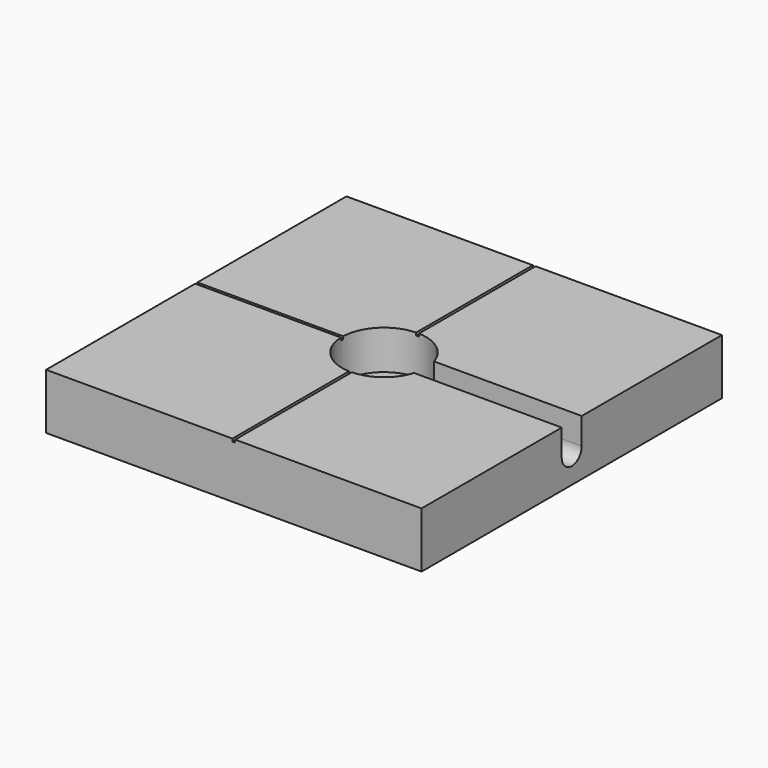
from build123d import *

# Parameters (mm, degrees)
F3_W     = 135
F3_H     = 135
F4_DEPTH = 20
F0_W     = 15.1
F0_H     = 14.1
F6_START = 14
F6_DEPTH = 136
F7_START = 19
F7_DEPTH = 6


with BuildPart() as f4:
    # F3 (on Top) → F4 (new body)
    with BuildSketch(Plane.XY):
        Rectangle(F3_W, F3_H)
    extrude(amount=F4_DEPTH)

    # F0 (on Front) → F5 (revolve, cut)
    with BuildSketch(Plane.XZ):
        with Locations((7.55, 12.95)):
            Rectangle(F0_W, F0_H)
    revolve(axis=Axis((0, 0, 12.95), (0, 0, -1)), mode=Mode.SUBTRACT)

    # F1 (on Right) → F6 (cut)
    with BuildSketch(Plane.YZ.offset(F6_START)):
        with BuildLine():
            Line((4.5, 20.4638522118), (0, 20.4638522118))
            Line((0, 20.4638522118), (-4.5, 20.4638522118))
            Line((-4.5, 20.4638522118), (-4.5, 10.4638522118))
            ThreePointArc((-4.5, 10.4638522118), (0, 5.9638522118), (4.5, 10.4638522118))
            Line((4.5, 10.4638522118), (4.5, 20.4638522118))
        make_face()
    extrude(amount=F6_DEPTH, mode=Mode.SUBTRACT)

    # F2 (on Top) → F7 (cut)
    with BuildSketch(Plane.XY.offset(F7_START)):
        Polygon((14, 0.5), (14, 0), (14, -0.5), (74, -0.5), (74, 0.5), align=None)
        Polygon((0.5, -14), (0, -14), (-0.5, -14), (-0.5, -74), (0.5, -74), align=None)
        Polygon((-13.9910685796, -0.5), (-13.9910685796, 0), (-13.9910685796, 0.5), (-73.9910685796, 0.5), (-73.9910685796, -0.5), align=None)
        Polygon((-0.5, 73.9972595498), (-0.5, 13.9972595498), (0, 13.9972595498), (0.5, 13.9972595498), (0.5, 73.9972595498), align=None)
    extrude(amount=F7_DEPTH, mode=Mode.SUBTRACT)


solid = f4.part
